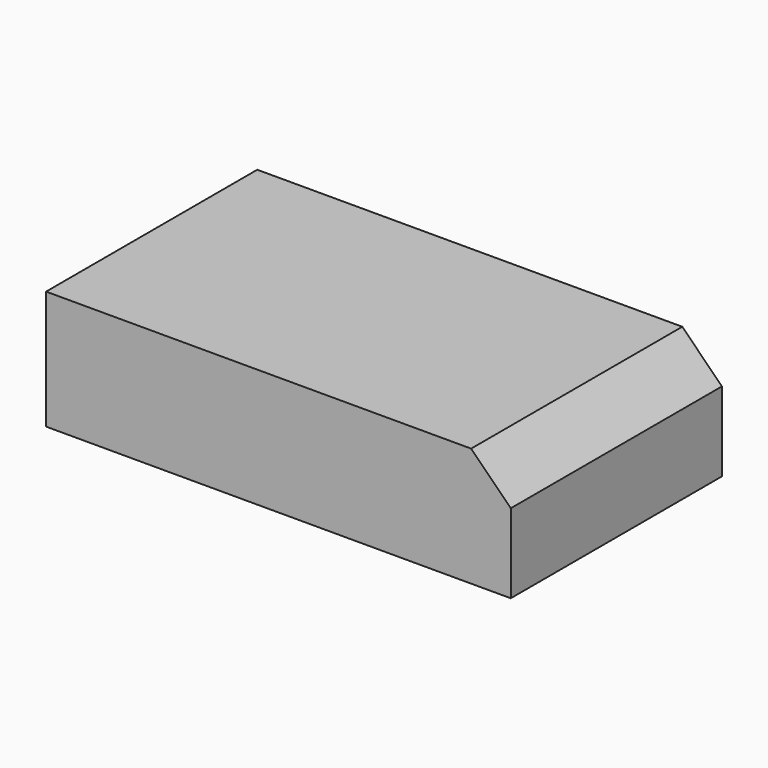
from build123d import *

# Parameters (mm, degrees)
SKETCH_W     = 70.364738
SKETCH_H     = 39.969604
PAD_DEPTH    = 18
CHAMFER_SIZE = 6


with BuildPart() as part:
    # Sketch → Pad (new body)
    with BuildSketch(Plane.XY):
        with Locations((35.182369, 19.984802)):
            Rectangle(SKETCH_W, SKETCH_H)
    extrude(amount=PAD_DEPTH)

    # Chamfer
    chamfer_edges = [part.edges().sort_by_distance(p)[0] for p in [
        (70.364738, 19.984802, 18),
    ]]
    chamfer(chamfer_edges, length=CHAMFER_SIZE)


solid = part.part
